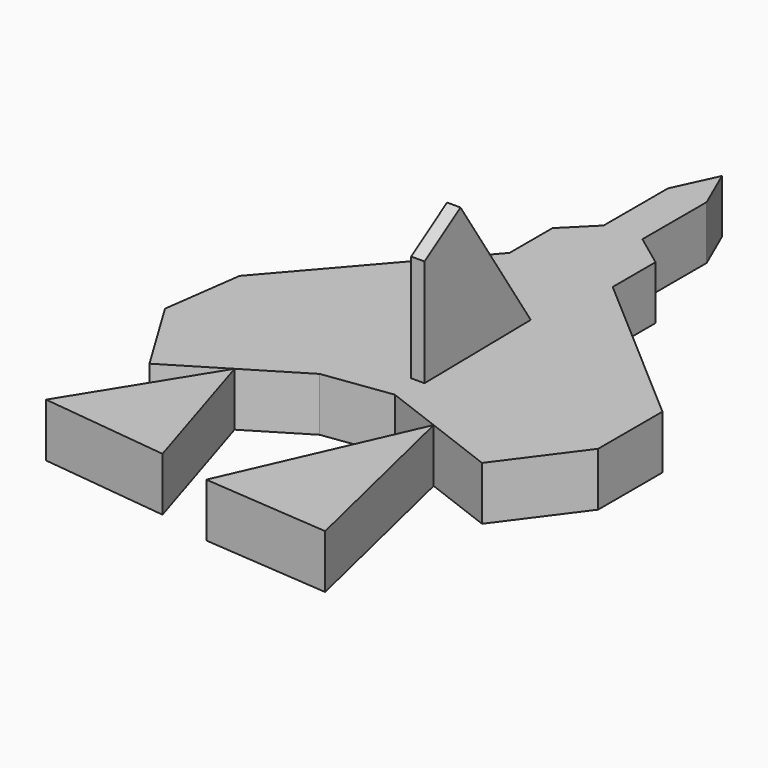
from build123d import *

# Parameters (mm, degrees)
F1_DEPTH = 50.8
F3_DEPTH = 12.7


with BuildPart() as f1:
    # F0 (on Top) → F1 (new body)
    with BuildSketch(Plane.XY):
        Polygon((-12.240575, -16.116755), (-48.374222, -16.852734), (-75.31499, -43.793502), (-75.31499, -94.593502), (-208.312709, -248.222427), (-218.588082, -323.726445), (-172.494456, -399.743468), (-118.196583, -366.819449), (-63.89871, -333.895431), (0.353394, -325.114556), (53.191993, -345.192093), (119.071752, -370.224992), (171.999928, -298.797978), (171.999928, -222.597978), (18.371003, -89.600259), (18.371003, -38.800259), align=None)
        Polygon((-29.601913, 99.812835), (-48.374222, 59.347266), (-48.374222, -16.852734), (-12.240575, -16.116755), (-12.240575, 60.083245), align=None)
        Polygon((96.743762, -528.119206), (53.191993, -345.192093), (-23.513228, -518.622518), align=None)
        Polygon((-74.693844, -506.561935), (-118.196583, -366.819449), (-196.234256, -492.539704), align=None)
    extrude(amount=F1_DEPTH)


with BuildPart() as f3:
    # F2 (on Right) → F3 (new body)
    with BuildSketch(Plane.YZ):
        Polygon((-305.352539, 157.927131), (-305.352539, 56.327131), (-179.534703, 58.04584), (-262.806368, 185.684352), align=None)
    extrude(amount=F3_DEPTH)


solid = Compound([f1.part, f3.part])
